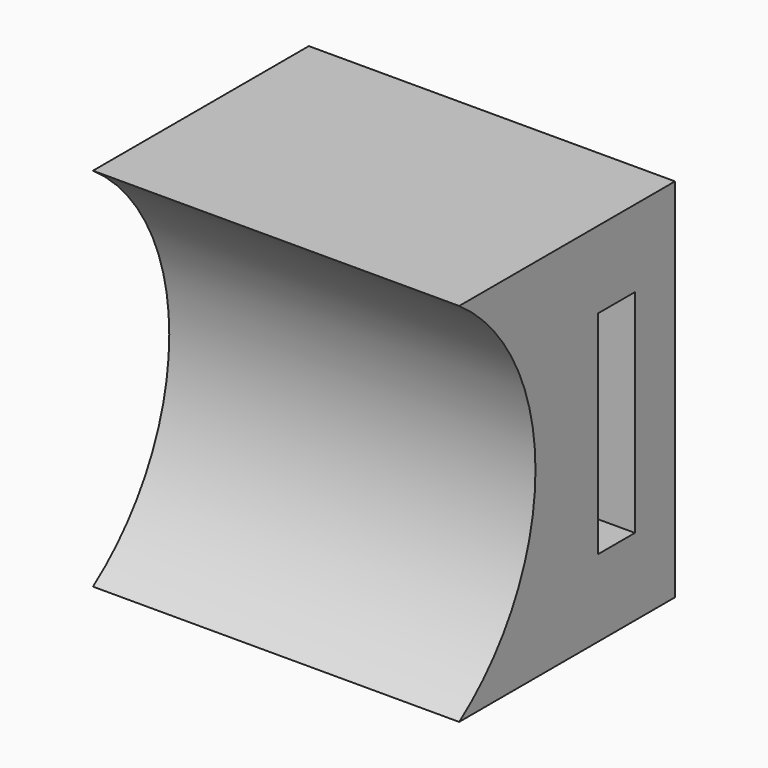
from build123d import *

# Parameters (mm, degrees)
F0_W     = 24.13
F0_H     = 24.13
F1_DEPTH = 17.78
F3_DEPTH = 24.131
F4_W     = 10.16
F4_H     = 7.62
F5_DEPTH = 7.62
F6_R     = 2.54
F7_DEPTH = 15.876
F8_W     = 3.048
F8_H     = 13.97
F9_DEPTH = 24.131


with BuildPart() as f1:
    # F0 (on Front) → F1 (new body)
    with BuildSketch(Plane.XZ):
        with Locations((-22.849758, 30.722394)):
            Rectangle(F0_W, F0_H)
    extrude(amount=F1_DEPTH)

    # F2 (on face) → F3 (cut, through all)
    with BuildSketch(Plane.YZ.offset(-10.784758)):
        with BuildLine():
            Line((-17.78, 42.787394), (-17.78, 18.657394))
            ThreePointArc((-17.78, 18.657394), (-11.495566, 30.722394), (-17.78, 42.787394))
        make_face()
    extrude(amount=-F3_DEPTH, mode=Mode.SUBTRACT)

    # F4 (on face) → F5 (join)
    with BuildSketch(Plane(origin=(0, 0, 0), x_dir=(-1, 0, 0), z_dir=(0, 1, 0))):
        with Locations((22.849758, 30.722394)):
            Rectangle(F4_W, F4_H)
    extrude(amount=F5_DEPTH)

    # F6 (on face) → F7 (cut, through all)
    with BuildSketch(Plane.XY.offset(34.532394)):
        with Locations((-22.849758, 3.81)):
            Circle(F6_R)
    extrude(amount=-F7_DEPTH, mode=Mode.SUBTRACT)

    # F8 (on face) → F9 (cut, through all)
    with BuildSketch(Plane.YZ.offset(-10.784758)):
        with Locations((-4.826, 30.722394)):
            Rectangle(F8_W, F8_H)
    extrude(amount=-F9_DEPTH, mode=Mode.SUBTRACT)


solid = f1.part
